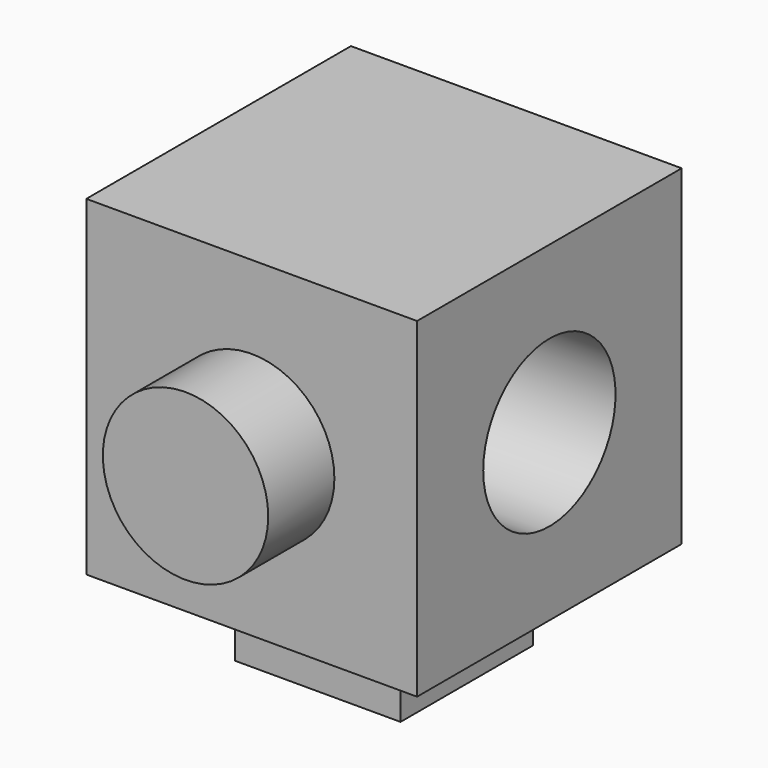
from build123d import *

# Parameters (mm, degrees)
F0_W     = 50.8
F0_H     = 50.8
F1_DEPTH = 50.8
F2_R     = 12.7
F3_DEPTH = 12.7
F4_R     = 12.7
F5_DEPTH = 50.8
F6_W     = 25.4
F6_H     = 25.4
F7_DEPTH = 12.7


with BuildPart() as f1:
    # F0 (on Front) → F1 (new body)
    with BuildSketch(Plane.XZ):
        with Locations((-25.4, 21.198998)):
            Rectangle(F0_W, F0_H)
    extrude(amount=F1_DEPTH)

    # F2 (on face) → F3 (join)
    with BuildSketch(Plane.XZ.offset(50.8)):
        with Locations((-25.4, 21.198998)):
            Circle(F2_R)
    extrude(amount=F3_DEPTH)

    # F4 (on face) → F5 (cut)
    with BuildSketch(Plane(origin=(-50.8, 0, 0), x_dir=(0, -1, 0), z_dir=(-1, 0, 0))):
        with Locations((25.4, 21.198998)):
            Circle(F4_R)
    extrude(amount=-F5_DEPTH, mode=Mode.SUBTRACT)

    # F6 (on face) → F7 (join)
    with BuildSketch(Plane(origin=(0, 0, -4.201002), x_dir=(1, 0, 0), z_dir=(0, 0, -1))):
        with Locations((-25.4, 25.4)):
            Rectangle(F6_W, F6_H)
    extrude(amount=F7_DEPTH)


solid = f1.part
